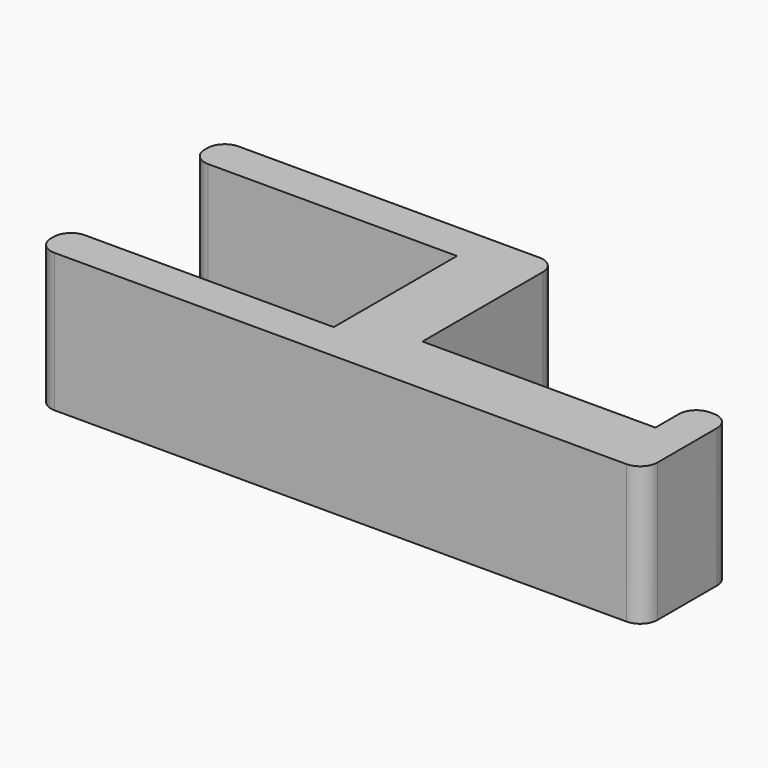
from build123d import *

# Parameters (mm, degrees)
F1_DEPTH = 40
F2_R     = 5


with BuildPart() as f1:
    # F0 (on Top) → F1 (new body)
    with BuildSketch(Plane.XY):
        Polygon((8.605164, 38.545381), (-88.195513, 38.545381), (-88.195513, 27.545381), (-11.394836, 27.545381), (-11.394836, -16.904619), (-88.195513, -16.904619), (-88.195513, -27.904619), (86.833119, -27.904619), (86.833119, 3.569916), (75.833119, 3.569916), (75.833119, -9.904619), (8.605164, -9.904619), align=None)
    extrude(amount=F1_DEPTH)

    # F2
    f2_edges = [f1.edges().sort_by_distance(p)[0] for p in [
        (8.605164, 38.545381, 20),
        (86.833119, -27.904619, 20),
        (-88.195513, -27.904619, 20),
        (-88.195513, -16.904619, 20),
        (-88.195513, 27.545381, 20),
        (-88.195513, 38.545381, 20),
        (86.833119, 3.569916, 20),
        (75.833119, 3.569916, 20),
    ]]
    fillet(f2_edges, radius=F2_R)


solid = f1.part
